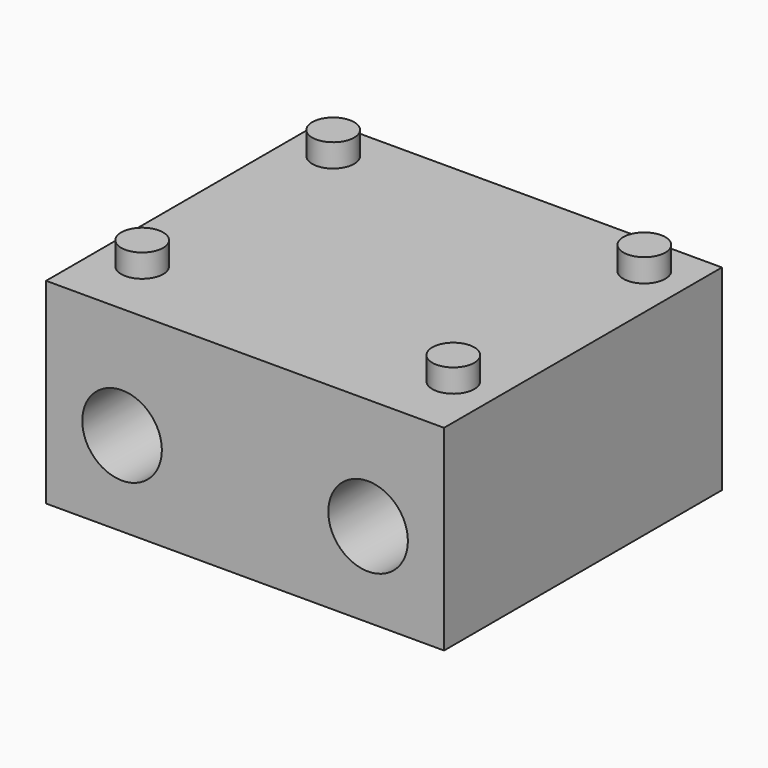
from build123d import *

# Parameters (mm, degrees)
SKETCH015_W     = 27.500439
SKETCH015_H     = 13.55
SKETCH015_R     = 1.75
PAD007_DEPTH    = 24
SKETCH016_R     = 2.75
POCKET008_DEPTH = 8
SKETCH017_R     = 1.45
PAD008_DEPTH    = 1.6


with BuildPart() as part:
    # Sketch015 (on Face27 of Binder004) → Pad007 (new body)
    with BuildSketch(Plane.XZ.offset(-32.95)):
        with Locations((13.74978, -6.775)):
            Rectangle(SKETCH015_W, SKETCH015_H)
        with Locations((5.24978, -7.7)):
            Circle(SKETCH015_R, mode=Mode.SUBTRACT)
        with Locations((22.24978, -7.7)):
            Circle(SKETCH015_R, mode=Mode.SUBTRACT)
    extrude(amount=PAD007_DEPTH)

    # Sketch016 (on Face8 of Pad007) → Pocket008 (cut)
    with BuildSketch(Plane.XZ.offset(-8.95)):
        with Locations((5.24978, -7.7)):
            Circle(SKETCH016_R)
        with Locations((22.24978, -7.7)):
            Circle(SKETCH016_R)
    extrude(amount=-POCKET008_DEPTH, mode=Mode.SUBTRACT)

    # Sketch017 (on Face6 of Pocket008) → Pad008 (join)
    with BuildSketch(Plane.XY):
        with Locations((3, 13.5)):
            Circle(SKETCH017_R)
        with Locations((24.5, 13.5)):
            Circle(SKETCH017_R)
        with Locations((24.5, 30)):
            Circle(SKETCH017_R)
        with Locations((3, 30)):
            Circle(SKETCH017_R)
    extrude(amount=PAD008_DEPTH)


solid = part.part
